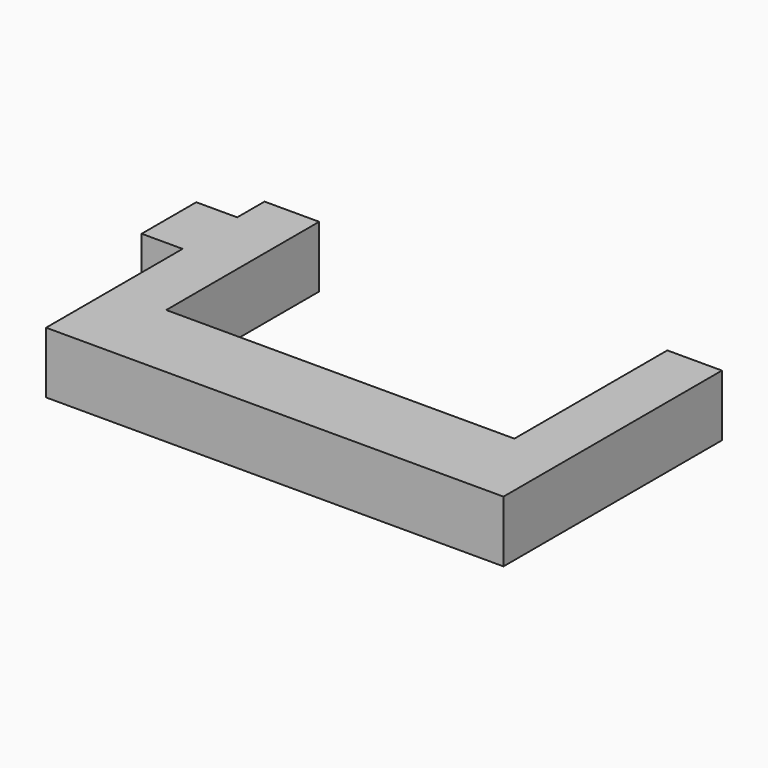
from build123d import *

# Parameters (mm, degrees)
F1_DEPTH = 7.14375
F2_W     = 15.875
F2_H     = 14.2875
F3_DEPTH = 9.525


with BuildPart() as f1:
    # F0 (on Top) → F1 (new body, symmetric)
    with BuildSketch(Plane.XY):
        Polygon((40.48125, 53.975), (40.48125, 9.525), (-40.48125, 9.525), (-40.48125, 53.975), (-53.18125, 53.975), (-53.18125, 9.525), (-53.18125, -9.525), (-40.48125, -9.525), (40.48125, -9.525), (53.18125, -9.525), (53.18125, 9.525), (53.18125, 53.975), align=None)
    extrude(amount=F1_DEPTH, both=True)

    # F2 (on face) → F3 (join)
    with BuildSketch(Plane(origin=(-53.18125, 0, 0), x_dir=(0, -1, 0), z_dir=(-1, 0, 0))):
        with Locations((-38.1, 0)):
            Rectangle(F2_W, F2_H)
    extrude(amount=F3_DEPTH)


solid = f1.part
